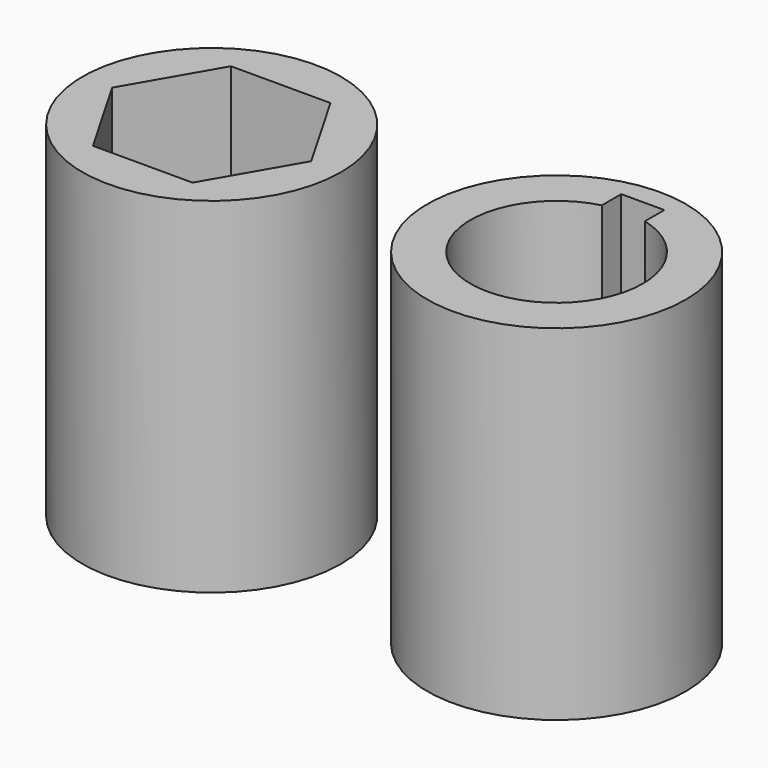
from build123d import *

# Parameters (mm, degrees)
F0_R     = 9.525
F1_DEPTH = 25.4


with BuildPart() as f1:
    # F0 (on Top) → F1 (new body)
    with BuildSketch(Plane.XY):
        with Locations((25.4, 0)):
            Circle(F0_R)
        with BuildLine():
            ThreePointArc((26.9875, 6.148361), (30.420116, 3.888565), (31.75, 0))
            ThreePointArc((31.75, 0), (21.511435, -5.020116), (23.8125, 6.148361))
            Line((23.8125, 6.148361), (23.8125, 7.9375))
            Line((23.8125, 7.9375), (26.9875, 7.9375))
            Line((26.9875, 7.9375), (26.9875, 6.148361))
        make_face(mode=Mode.SUBTRACT)
        Circle(F0_R)
        Polygon((3.666174, 6.35), (7.332348, 0), (3.666174, -6.35), (-3.666174, -6.35), (-7.332348, 0), (-3.666174, 6.35), align=None, mode=Mode.SUBTRACT)
    extrude(amount=F1_DEPTH)


solid = f1.part
